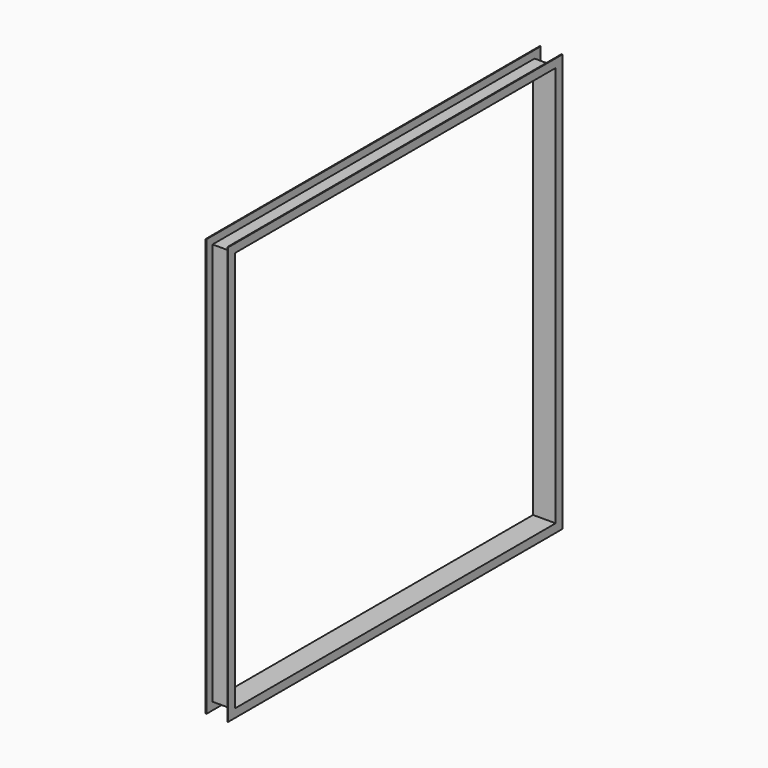
from build123d import *


with BuildPart() as f2:
    # F2: sweep along a path in F1
    with BuildLine(Plane.YZ) as f2_path:
        Line((0, 0), (0, 710))
        Line((0, 710), (710, 710))
        Line((710, 710), (710, 0))
        Line((710, 0), (0, 0))
    # F0 (on Top) → F2 (sweep)
    with BuildSketch(Plane.XY):
        Polygon((0, -15), (0, 0), (-40, 0), (-40, -15), (-38.5, -15), (-38.5, -1.5), (-1.5, -1.5), (-1.5, -15), align=None)
    sweep(path=f2_path.line, transition=Transition.RIGHT)


solid = f2.part
